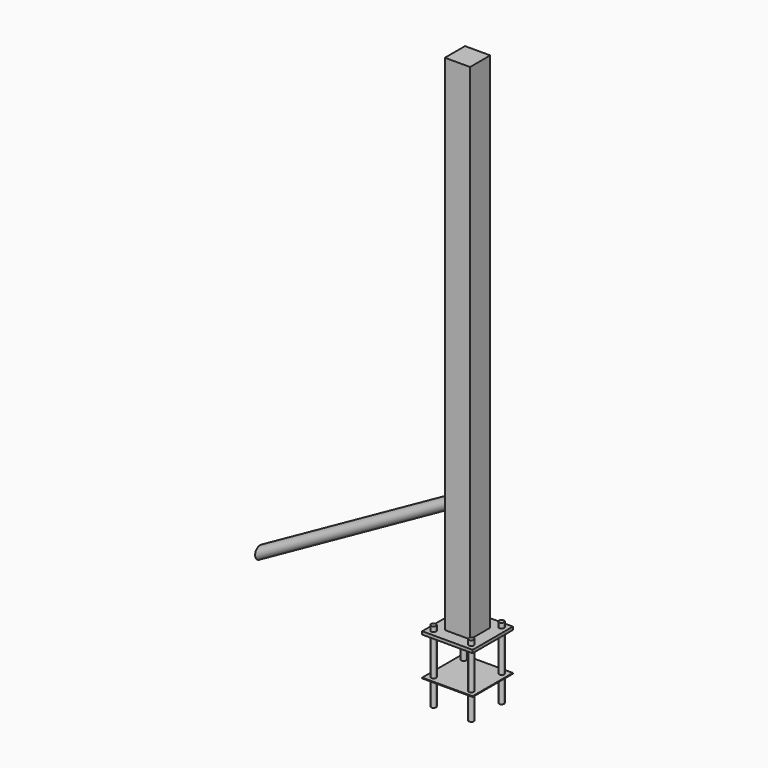
from build123d import *

# Parameters (mm, degrees)
F0_W      = 100
F0_H      = 100
F1_DEPTH  = 2000
F2_W      = 200
F2_H      = 200
F3_DEPTH  = 12
F5_DEPTH  = 150
F7_DEPTH  = 20
F8_W      = 200
F8_H      = 200
F9_DEPTH  = 3
F11_DEPTH = 100
F13_R     = 25


with BuildPart() as f1:
    # F0 (on Top) → F1 (new body)
    with BuildSketch(Plane.XY):
        Rectangle(F0_W, F0_H)
    extrude(amount=F1_DEPTH)

    # F2 (on face) → F3 (join)
    with BuildSketch(Plane(origin=(0, 0, 0), x_dir=(1, 0, 0), z_dir=(0, 0, -1))):
        Rectangle(F2_W, F2_H)
    extrude(amount=F3_DEPTH)

    # F4 (on face) → F5 (join)
    with BuildSketch(Plane(origin=(0, 0, -12), x_dir=(1, 0, 0), z_dir=(0, 0, -1))):
        with BuildLine():
            ThreePointArc((-75, 85), (-82.0710678119, 67.9289321881), (-65, 75))
            ThreePointArc((-65, 75), (-67.9289321881, 82.0710678119), (-75, 85))
        make_face()
        with BuildLine():
            ThreePointArc((75, 85), (67.9289321881, 67.9289321881), (85, 75))
            ThreePointArc((85, 75), (82.0710678119, 82.0710678119), (75, 85))
        make_face()
        with BuildLine():
            ThreePointArc((-75, -85), (-67.9289321881, -82.0710678119), (-65, -75))
            ThreePointArc((-65, -75), (-82.0710678119, -67.9289321881), (-75, -85))
        make_face()
        with BuildLine():
            ThreePointArc((75, -85), (82.0710678119, -82.0710678119), (85, -75))
            ThreePointArc((85, -75), (67.9289321881, -67.9289321881), (75, -85))
        make_face()
    extrude(amount=F5_DEPTH)

    # F6 (on face) → F7 (join)
    with BuildSketch(Plane.XY):
        with BuildLine():
            ThreePointArc((-65, 75), (-67.9289321881, 82.0710678119), (-75, 85))
            Line((-75, 85), (-75, 75))
            Line((-75, 75), (-75, 65))
            ThreePointArc((-75, 65), (-67.9289321881, 67.9289321881), (-65, 75))
        make_face()
        with BuildLine():
            ThreePointArc((-65, -75), (-67.9289321881, -67.9289321881), (-75, -65))
            ThreePointArc((-75, -65), (-82.0710678119, -82.0710678119), (-65, -75))
        make_face()
        with BuildLine():
            Line((-75, 75), (-75, 85))
            ThreePointArc((-75, 85), (-85, 75), (-75, 65))
            Line((-75, 65), (-75, 75))
        make_face()
        with BuildLine():
            ThreePointArc((85, 75), (82.0710678119, 82.0710678119), (75, 85))
            Line((75, 85), (75, 75))
            Line((75, 75), (75, 65))
            ThreePointArc((75, 65), (82.0710678119, 67.9289321881), (85, 75))
        make_face()
        with BuildLine():
            ThreePointArc((85, -75), (82.0710678119, -67.9289321881), (75, -65))
            ThreePointArc((75, -65), (67.9289321881, -82.0710678119), (85, -75))
        make_face()
        with BuildLine():
            Line((75, 75), (75, 85))
            ThreePointArc((75, 85), (65, 75), (75, 65))
            Line((75, 65), (75, 75))
        make_face()
    extrude(amount=F7_DEPTH)

    # F8 (on face) → F9 (join)
    with BuildSketch(Plane(origin=(0, 0, -162), x_dir=(1, 0, 0), z_dir=(0, 0, -1))):
        Rectangle(F8_W, F8_H)
    extrude(amount=F9_DEPTH)

    # F10 (on face) → F11 (join)
    with BuildSketch(Plane(origin=(0, 0, -165), x_dir=(1, 0, 0), z_dir=(0, 0, -1))):
        with BuildLine():
            ThreePointArc((-65, 75), (-67.9289321881, 82.0710678119), (-75, 85))
            Line((-75, 85), (-75, 75))
            Line((-75, 75), (-75, 65))
            ThreePointArc((-75, 65), (-67.9289321881, 67.9289321881), (-65, 75))
        make_face()
        with BuildLine():
            ThreePointArc((85, 75), (67.9289321881, 82.0710678119), (75, 65))
            ThreePointArc((75, 65), (82.0710678119, 67.9289321881), (85, 75))
        make_face()
        with BuildLine():
            ThreePointArc((75, -65), (67.9289321881, -67.9289321881), (65, -75))
            Line((65, -75), (75, -75))
            Line((75, -75), (75, -65))
        make_face()
        with BuildLine():
            Line((75, -75), (65, -75))
            ThreePointArc((65, -75), (75, -85), (85, -75))
            ThreePointArc((85, -75), (82.0710678119, -67.9289321881), (75, -65))
            Line((75, -65), (75, -75))
        make_face()
        with BuildLine():
            ThreePointArc((-65, -75), (-67.9289321881, -67.9289321881), (-75, -65))
            Line((-75, -65), (-75, -75))
            Line((-75, -75), (-65, -75))
        make_face()
        with BuildLine():
            Line((-75, -75), (-75, -65))
            ThreePointArc((-75, -65), (-82.0710678119, -82.0710678119), (-65, -75))
            Line((-65, -75), (-75, -75))
        make_face()
        with BuildLine():
            Line((-75, 75), (-75, 85))
            ThreePointArc((-75, 85), (-85, 75), (-75, 65))
            Line((-75, 65), (-75, 75))
        make_face()
    extrude(amount=F11_DEPTH)

    # F14: sweep along a path in F12
    with BuildLine(Plane.XZ) as f14_path:
        Line((-823.6663937569, 0), (-50.3681525588, 431.6245317459))
    # F13 (on face) → F14 (sweep)
    with BuildSketch(Plane(origin=(-50, 0, 0), x_dir=(0, -1, 0), z_dir=(-1, 0, 0))):
        with Locations((0, 431.8528473377)):
            Circle(F13_R)
    sweep(path=f14_path.line)


solid = f1.part
